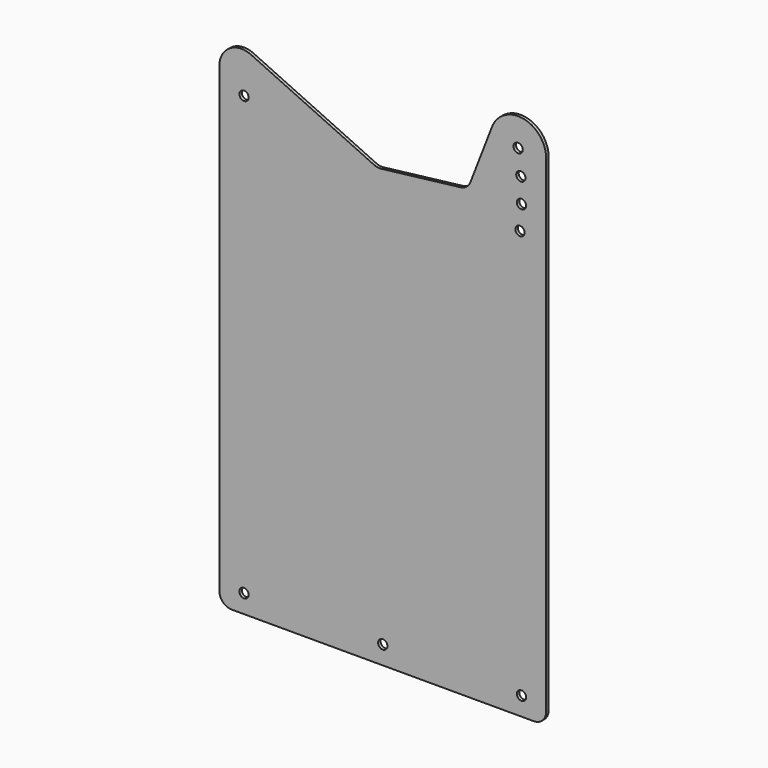
from build123d import *

# Parameters (mm, degrees)
F1_R     = 4.7625
F2_DEPTH = 3.175
F3_R     = 12.7
F4_DEPTH = 50.8
F5_R     = 12.7
F6_R     = 4.7625
F7_DEPTH = 3.176


with BuildPart() as f2:
    # F1 (on Front) → F2 (new body)
    with BuildSketch(Plane.XZ):
        with BuildLine():
            Line((0, 438.0280625751), (0, 0))
            Line((0, 0), (336.55, 0))
            Line((336.55, 0), (336.55, 463.55))
            ThreePointArc((336.55, 463.55), (312.9733695253, 491.9375484372), (280.7399069367, 473.9732978163))
            Line((280.7399069367, 473.9732978163), (255.7973116004, 409.5266607723))
            Line((255.7973116004, 409.5266607723), (166.3505145476, 398.8620060081))
            Line((166.3505145476, 398.8620060081), (162.7768007124, 398.4359155775))
            Line((162.7768007124, 398.4359155775), (159.5108394321, 399.9480268652))
            Line((159.5108394321, 399.9480268652), (32.4645066839, 458.7693591847))
            ThreePointArc((32.4645066839, 458.7693591847), (10.5523855062, 457.2889027896), (0, 438.0280625751))
        make_face()
        with Locations((25.4, 419.1)):
            Circle(F1_R, mode=Mode.SUBTRACT)
        with Locations((309.5579415817, 388.9781352495)):
            Circle(F1_R, mode=Mode.SUBTRACT)
        with Locations((311.1019283196, 413.8587544951)):
            Circle(F1_R, mode=Mode.SUBTRACT)
        with Locations((310.4715508715, 438.7792627838)):
            Circle(F1_R, mode=Mode.SUBTRACT)
        with Locations((307.6716067903, 463.55)):
            Circle(F1_R, mode=Mode.SUBTRACT)
    extrude(amount=F2_DEPTH)

    # F3
    f3_edges = [f2.edges().sort_by_distance(p)[0] for p in [
        (162.776801, -1.5875, 398.435916),
        (255.797312, -1.5875, 409.526661),
    ]]
    fillet(f3_edges, radius=F3_R)

    # F4 (add): a face of the model
    f4_faces = [f2.faces().sort_by_distance(p)[0] for p in [
        (168.275, -1.5875, 0),
    ]]
    extrude(f4_faces, amount=F4_DEPTH)

    # F5
    f5_edges = [f2.edges().sort_by_distance(p)[0] for p in [
        (0, -1.5875, -50.8),
        (336.55, -1.5875, -50.8),
    ]]
    fillet(f5_edges, radius=F5_R)

    # F6 (on face) → F7 (cut, through all)
    with BuildSketch(Plane.XZ.offset(3.175)):
        with Locations((25.4, -31.75)):
            Circle(F6_R)
        with Locations((168.275, -31.75)):
            Circle(F6_R)
        with Locations((311.15, -31.75)):
            Circle(F6_R)
    extrude(amount=-F7_DEPTH, mode=Mode.SUBTRACT)


solid = f2.part
